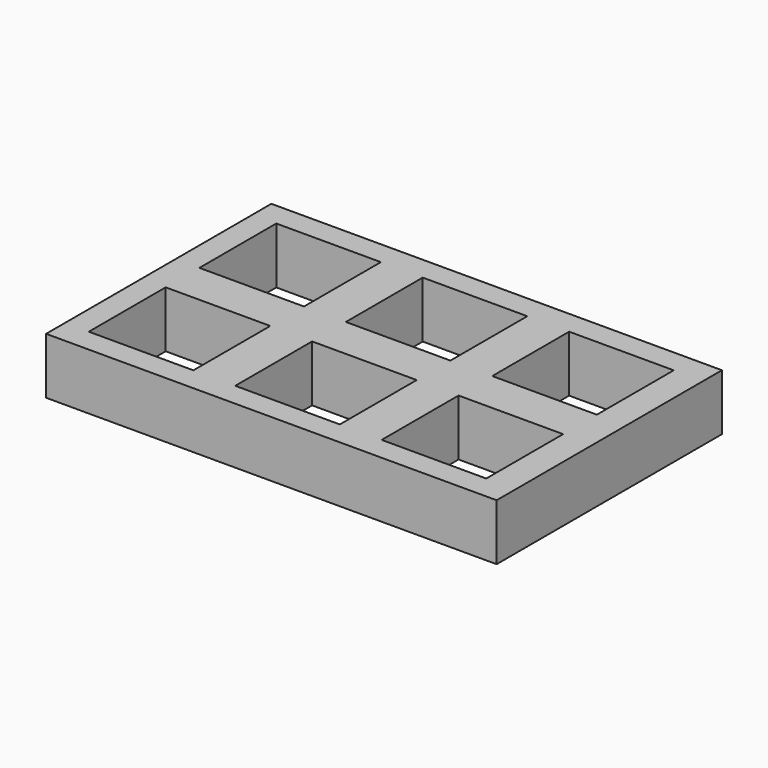
from build123d import *

# Parameters (mm, degrees)
F0_W     = 40
F0_H     = 25
F0_W_2   = 9.283639
F0_H_2   = 8.530912
F1_DEPTH = 5


with BuildPart() as f1:
    # F0 (on Top) → F1 (new body)
    with BuildSketch(Plane.XY):
        with Locations((20, 12.5)):
            Rectangle(F0_W, F0_H)
        with Locations((6.75697, 6.363504)):
            Rectangle(F0_W_2, F0_H_2, mode=Mode.SUBTRACT)
        with Locations((19.75697, 6.363504)):
            Rectangle(F0_W_2, F0_H_2, mode=Mode.SUBTRACT)
        with Locations((32.75697, 6.363504)):
            Rectangle(F0_W_2, F0_H_2, mode=Mode.SUBTRACT)
        with Locations((6.75697, 18.636496)):
            Rectangle(F0_W_2, F0_H_2, mode=Mode.SUBTRACT)
        with Locations((19.75697, 18.636496)):
            Rectangle(F0_W_2, F0_H_2, mode=Mode.SUBTRACT)
        with Locations((32.75697, 18.636496)):
            Rectangle(F0_W_2, F0_H_2, mode=Mode.SUBTRACT)
    extrude(amount=F1_DEPTH)


solid = f1.part
